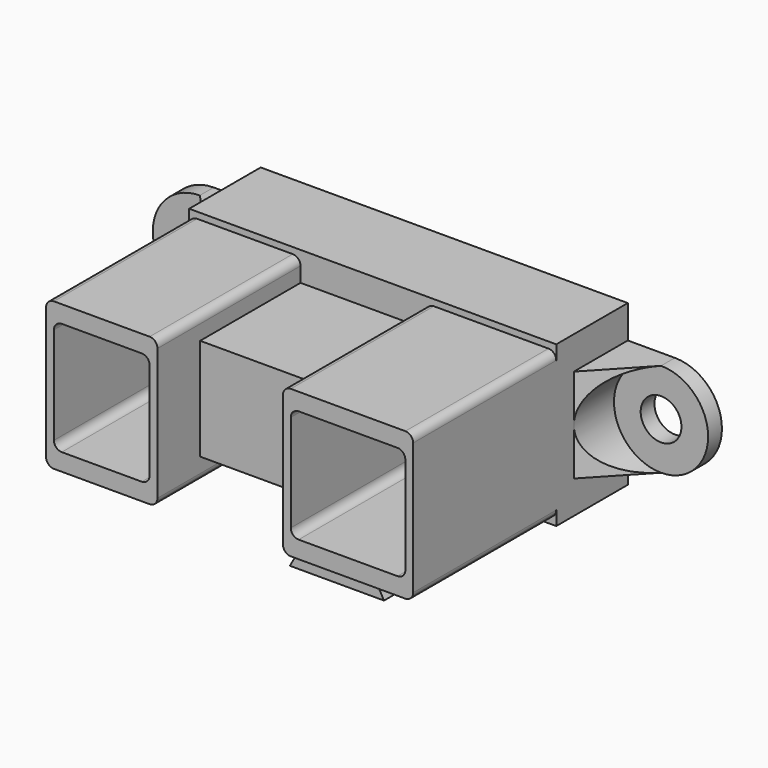
from build123d import *

# Parameters (mm, degrees)
F0_W      = 29.718
F0_H      = 12.954
F1_DEPTH  = 7.239
F3_DEPTH  = 14.478
F5_DEPTH  = 14.478
F6_W      = 10.16
F6_H      = 8.255
F7_DEPTH  = 10.16
F8_R      = 1.651
F9_DEPTH  = 5.461
F10_W     = 3.81
F10_H     = 4.064
F11_DEPTH = 10.288
F12_R     = 3.81
F13_DEPTH = 20.321
F14_W     = 10.16
F14_H     = 2.3495
F15_DEPTH = 7.24
F16_W     = 10.16
F16_H     = 1.143
F17_DEPTH = 8.128
F18_W     = 1.27
F18_H     = 1.8415
F19_DEPTH = 5.461


with BuildPart() as f1:
    # F0 (on Front) → F1 (new body)
    with BuildSketch(Plane.XZ):
        Rectangle(F0_W, F0_H)
    extrude(amount=-F1_DEPTH)

    # F2 (on face) → F3 (join)
    with BuildSketch(Plane.XZ):
        with BuildLine():
            Line((-6.477, 5.969), (-14.224, 5.969))
            ThreePointArc((-14.224, 5.969), (-14.673013, 5.783013), (-14.859, 5.334))
            Line((-14.859, 5.334), (-14.859, -5.334))
            ThreePointArc((-14.859, -5.334), (-14.673013, -5.783013), (-14.224, -5.969))
            Line((-14.224, -5.969), (-6.477, -5.969))
            ThreePointArc((-6.477, -5.969), (-6.027987, -5.783013), (-5.842, -5.334))
            Line((-5.842, -5.334), (-5.842, 5.334))
            ThreePointArc((-5.842, 5.334), (-6.027987, 5.783013), (-6.477, 5.969))
        make_face()
        with BuildLine():
            Line((-14.224, -3.937), (-14.224, 3.937))
            ThreePointArc((-14.224, 3.937), (-14.038013, 4.386013), (-13.589, 4.572))
            Line((-13.589, 4.572), (-7.112, 4.572))
            ThreePointArc((-7.112, 4.572), (-6.662987, 4.386013), (-6.477, 3.937))
            Line((-6.477, 3.937), (-6.477, -3.937))
            ThreePointArc((-6.477, -3.937), (-6.662987, -4.386013), (-7.112, -4.572))
            Line((-7.112, -4.572), (-13.589, -4.572))
            ThreePointArc((-13.589, -4.572), (-14.038013, -4.386013), (-14.224, -3.937))
        make_face(mode=Mode.SUBTRACT)
    extrude(amount=F3_DEPTH)

    # F4 (on face) → F5 (join, through all)
    with BuildSketch(Plane.XZ):
        with BuildLine():
            Line((14.224, 5.969), (4.953, 5.969))
            ThreePointArc((4.953, 5.969), (4.503987, 5.783013), (4.318, 5.334))
            Line((4.318, 5.334), (4.318, -5.334))
            ThreePointArc((4.318, -5.334), (4.503987, -5.783013), (4.953, -5.969))
            Line((4.953, -5.969), (14.224, -5.969))
            ThreePointArc((14.224, -5.969), (14.673013, -5.783013), (14.859, -5.334))
            Line((14.859, -5.334), (14.859, 5.334))
            ThreePointArc((14.859, 5.334), (14.673013, 5.783013), (14.224, 5.969))
        make_face()
        with BuildLine():
            ThreePointArc((4.953, 3.937), (5.138987, 4.386013), (5.588, 4.572))
            Line((5.588, 4.572), (13.589, 4.572))
            ThreePointArc((13.589, 4.572), (14.038013, 4.386013), (14.224, 3.937))
            Line((14.224, 3.937), (14.224, -3.937))
            ThreePointArc((14.224, -3.937), (14.038013, -4.386013), (13.589, -4.572))
            Line((13.589, -4.572), (5.588, -4.572))
            ThreePointArc((5.588, -4.572), (5.138987, -4.386013), (4.953, -3.937))
            Line((4.953, -3.937), (4.953, 3.937))
        make_face(mode=Mode.SUBTRACT)
    extrude(amount=F5_DEPTH)

    # F6 (on face) → F7 (join)
    with BuildSketch(Plane.XZ):
        with Locations((-0.762, 0)):
            Rectangle(F6_W, F6_H)
    extrude(amount=F7_DEPTH)

    # F8 (on face) → F9 (join)
    with BuildSketch(Plane(origin=(0, 7.239, 0), x_dir=(-1, 0, 0), z_dir=(0, 1, 0))):
        with BuildLine():
            Line((14.859, -3.81), (18.669, -3.81))
            ThreePointArc((18.669, -3.81), (22.479, 0), (18.669, 3.81))
            Line((18.669, 3.81), (14.859, 3.81))
            Line((14.859, 3.81), (14.859, -3.81))
        make_face()
        with Locations((18.669, 0)):
            Circle(F8_R, mode=Mode.SUBTRACT)
        with BuildLine():
            Line((-18.669, -3.81), (-14.859, -3.81))
            Line((-14.859, -3.81), (-14.859, 3.81))
            Line((-14.859, 3.81), (-18.669, 3.81))
            ThreePointArc((-18.669, 3.81), (-22.479, 0), (-18.669, -3.81))
        make_face()
        with Locations((-18.669, 0)):
            Circle(F8_R, mode=Mode.SUBTRACT)
    extrude(amount=-F9_DEPTH)

    # F10 (on face) → F11 (cut, through all)
    with BuildSketch(Plane.XY.offset(3.81)):
        Polygon((-22.479, 1.778), (-14.859, 1.778), (-18.669, 5.842), (-22.479, 5.842), align=None)
        with Locations((20.574, 3.81)):
            Rectangle(F10_W, F10_H)
        Polygon((18.669, 1.778), (18.669, 5.842), (14.859, 1.778), align=None)
    extrude(amount=-F11_DEPTH, mode=Mode.SUBTRACT)

    # F12 (on face) → F13 (cut, through all)
    with BuildSketch(Plane.XZ.offset(-5.842)):
        with Locations((18.669, 0)):
            Circle(F12_R)
        with Locations((-18.669, 0)):
            Circle(F12_R)
    extrude(amount=F13_DEPTH, mode=Mode.SUBTRACT)

    # F14 (on face) → F15 (cut, through all)
    with BuildSketch(Plane.XZ):
        with Locations((-0.762, -5.30225)):
            Rectangle(F14_W, F14_H)
    extrude(amount=-F15_DEPTH, mode=Mode.SUBTRACT)


with BuildPart() as f17:
    # F16 (on face) → F17 (new body)
    with BuildSketch(Plane(origin=(0, 0, -4.1275), x_dir=(1, 0, 0), z_dir=(0, 0, -1))):
        with Locations((-0.762, -3.3655)):
            Rectangle(F16_W, F16_H)
    extrude(amount=F17_DEPTH)


with BuildPart() as f19:
    # F18 (on face) → F19 (new body)
    with BuildSketch(Plane.XZ.offset(-2.794)):
        Polygon((-3.302, -5.969), (-4.572, -5.969), (-4.572, -12.2555), (-3.302, -12.2555), (1.778, -12.2555), (3.048, -12.2555), (3.048, -5.969), (1.778, -5.969), align=None)
        with Locations((-3.937, -5.04825)):
            Rectangle(F18_W, F18_H)
        with Locations((2.413, -5.04825)):
            Rectangle(F18_W, F18_H)
        Polygon((1.778, -12.2555), (-3.302, -12.2555), (-4.572, -14.5415), (3.048, -14.5415), align=None)
    extrude(amount=F19_DEPTH)


solid = Compound([f1.part, f17.part, f19.part])
